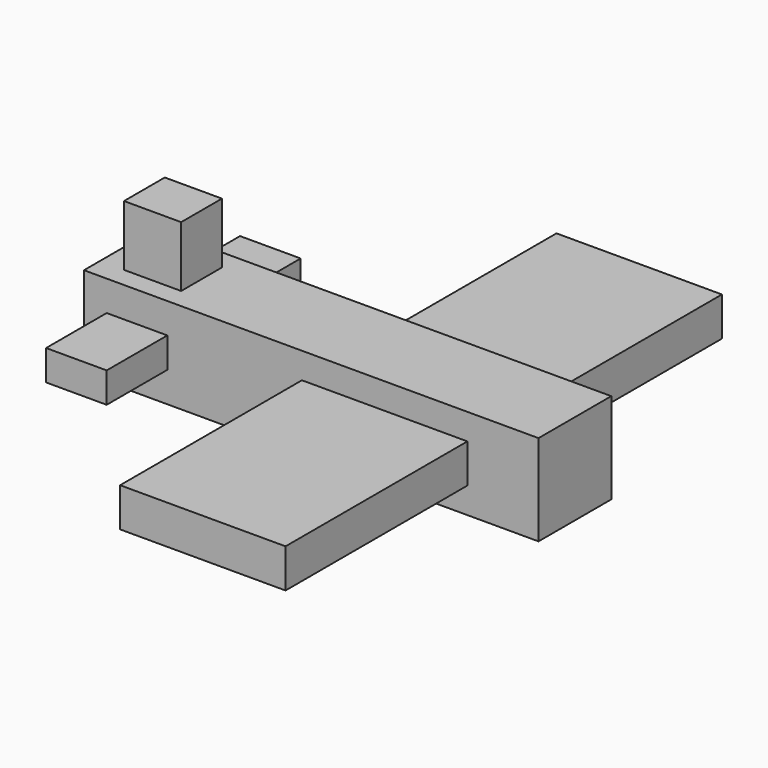
from build123d import *

# Parameters (mm, degrees)
F0_W     = 38.1
F0_H     = 3.81
F1_DEPTH = 7.62
F2_W     = 13.867821
F2_H     = 3.260234
F3_DEPTH = 19.05
F4_W     = 5.08
F4_H     = 2.54
F5_DEPTH = 6.35
F6_W     = 4.791245
F6_H     = 2.137142
F7_DEPTH = 5.08


with BuildPart() as f1:
    # F0 (on Top) → F1 (new body)
    with BuildSketch(Plane.XY):
        with Locations((-46.713926, 5.953849)):
            Rectangle(F0_W, F0_H)
    extrude(amount=F1_DEPTH)

    # F2 (on face) → F3 (join)
    with BuildSketch(Plane(origin=(0, 7.858849, 0), x_dir=(-1, 0, 0), z_dir=(0, 1, 0))):
        with Locations((40.561947, 3.81)):
            Rectangle(F2_W, F2_H)
    extrude(amount=F3_DEPTH)

    # F4 (on face) → F5 (join)
    with BuildSketch(Plane(origin=(0, 7.858849, 0), x_dir=(-1, 0, 0), z_dir=(0, 1, 0))):
        with Locations((61.318926, 3.81)):
            Rectangle(F4_W, F4_H)
    extrude(amount=F5_DEPTH)

    # F6 (on face) → F7 (join)
    with BuildSketch(Plane.XY.offset(7.62)):
        with Locations((-61.35144, 5.11742)):
            Rectangle(F6_W, F6_H)
    extrude(amount=F7_DEPTH)

    # F8: F1 across face


with BuildPart() as f1_1:
    add(f1.part)
    add(f1.part.mirror(Plane(origin=(-47.846159, 4.048849, 4.301182), x_dir=(1, 0, 0), z_dir=(0, -1, 0))))


solid = f1_1.part
